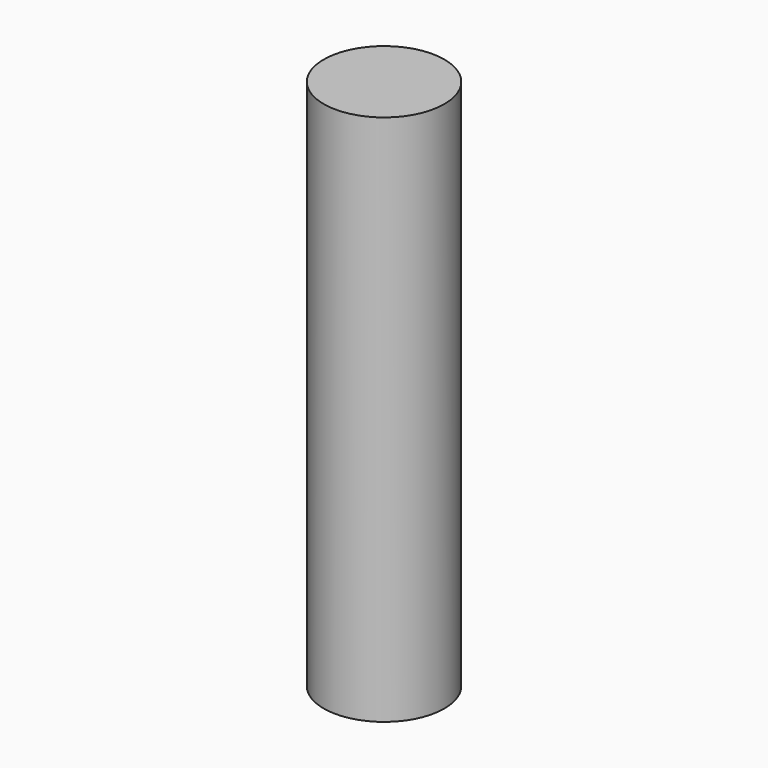
from build123d import *

# Parameters (mm, degrees)
CYLINDER_R     = 1.7018
CYLINDER_DEPTH = 15


with BuildPart() as part:
    # Cylinder → Cylinder (new body)
    with BuildSketch(Plane.XY.offset(-2.5)):
        Circle(CYLINDER_R)
    extrude(amount=CYLINDER_DEPTH)


solid = part.part
